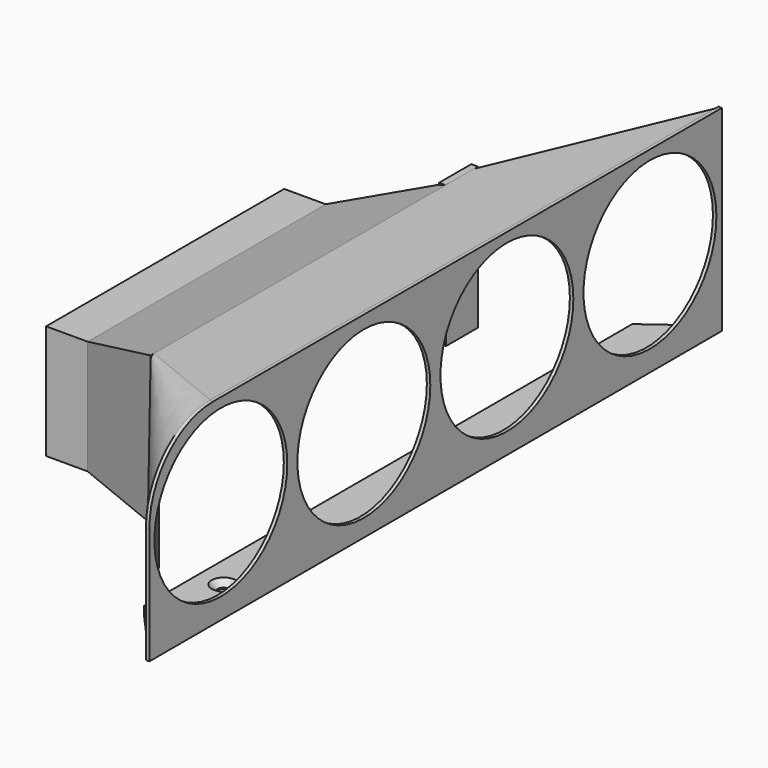
from build123d import *

# Parameters (mm, degrees)
PAD027_DEPTH    = 12
SKETCH076_R     = 1.75
PAD037_DEPTH    = 2
CHAMFER008_SIZE = 1.7
SKETCH098_R     = 24
PAD052_DEPTH    = 0.5
SKETCH099_W     = 11.665924
SKETCH099_H     = 40.921475
PAD053_DEPTH    = 2


with BuildPart() as part:
    # Sketch058 (on DatumPlane) → Pad027 (new body)
    with BuildSketch(Plane.YZ.offset(286)):
        Polygon((49, 12), (49, 45), (135, 45), (135, 19), (132, 19), (132, 42), (52, 42), (52, 12), align=None)
    extrude(amount=-PAD027_DEPTH)

    # Sketch060 (on DatumPlane) → AdditiveLoft001 section 0
    with BuildSketch(Plane.YZ.offset(313)):
        Polygon((41, 12), (41, 47), (143, 47), (143, 19), (146, 19), (146, 54.75), (38, 54.75), (38, 12), align=None)
    # Sketch059 (on DatumPlane) → AdditiveLoft001 section 1
    with BuildSketch(Plane.YZ.offset(286)):
        Polygon((49, 12), (49, 45), (135, 45), (135, 19), (132, 19), (132, 42), (52, 42), (52, 12), align=None)
    loft()

    # Sketch062 (on DatumPlane) → AdditiveLoft002 section 0
    with BuildSketch(Plane.YZ.offset(340)):
        with BuildLine():
            Line((3.2, 0), (3.2, 33.75))
            ThreePointArc((26.2, 56.75), (9.936544, 50.013456), (3.2, 33.75))
            Line((26.2, 56.75), (187, 56.75))
            Line((210, 56.75), (187, 56.75))
            Line((210, 54), (210, 56.75))
            Line((183, 54), (210, 54))
            Line((183, 54), (30, 54))
            ThreePointArc((30, 54), (12.32233, 46.67767), (5, 29))
            Line((5, 29), (5, 0))
            Line((5, 0), (3.2, 0))
        make_face()
    # Sketch061 (on DatumPlane) → AdditiveLoft002 section 1
    with BuildSketch(Plane.YZ.offset(313)):
        with BuildLine():
            Line((41, 0), (41, 45.742159))
            ThreePointArc((42.257841, 47), (41.368413, 46.631587), (41, 45.742159))
            Line((42.257841, 47), (141.742159, 47))
            Line((141.742159, 47), (154.714584, 47))
            Line((154.714584, 47), (154.714584, 54.75))
            Line((154.714584, 54.75), (144.742159, 54.75))
            Line((144.742159, 54.75), (39.257841, 54.75))
            ThreePointArc((39.257841, 54.75), (38.368413, 54.381587), (38, 53.492159))
            Line((38, 53.492159), (38, 0))
            Line((38, 0), (41, 0))
        make_face()
    loft()

    # Sketch076 → Pad037 (join)
    with BuildSketch(Plane.XY):
        Polygon((340, 208), (340, 3.768617), (325, 20.549414), (325, 196.984344), align=None)
        with Locations((332.5, 40)):
            Circle(SKETCH076_R, mode=Mode.SUBTRACT)
        with Locations((332.5, 120)):
            Circle(SKETCH076_R, mode=Mode.SUBTRACT)
    extrude(amount=PAD037_DEPTH)

    # Chamfer008
    chamfer008_edges = [part.edges().sort_by_distance(p)[0] for p in [
        (330.75, 120, 2),
        (330.75, 40, 2),
    ]]
    chamfer(chamfer008_edges, length=CHAMFER008_SIZE)

    # Sketch098 (on DatumPlane) → Pad052 (join, symmetric)
    with BuildSketch(Plane.YZ.offset(340)):
        with BuildLine():
            Line((3.2, 0), (3.2, 33.75))
            ThreePointArc((26.2, 56.75), (9.936544, 50.013456), (3.2, 33.75))
            Line((26.2, 56.75), (209.995, 56.75))
            ThreePointArc((210, 56.745), (209.998536, 56.748536), (209.995, 56.75))
            Line((210, 56.745), (210, 0))
            Line((210, 0), (208, 0))
            Line((5, 0), (208, 0))
            Line((5, 0), (3.2, 0))
        make_face()
        with Locations((29, 30)):
            Circle(SKETCH098_R, mode=Mode.SUBTRACT)
        with Locations((184, 30)):
            Circle(SKETCH098_R, mode=Mode.SUBTRACT)
        with Locations((80.663441, 29)):
            Circle(SKETCH098_R, mode=Mode.SUBTRACT)
        with Locations((132.326882, 30)):
            Circle(SKETCH098_R, mode=Mode.SUBTRACT)
    extrude(amount=PAD052_DEPTH, both=True)

    # Sketch099 (on DatumPlane) → Pad053 (join)
    with BuildSketch(Plane.YZ.offset(313)):
        with Locations((150.516098, 34.194787)):
            Rectangle(SKETCH099_W, SKETCH099_H)
    extrude(amount=-PAD053_DEPTH)


solid = part.part
